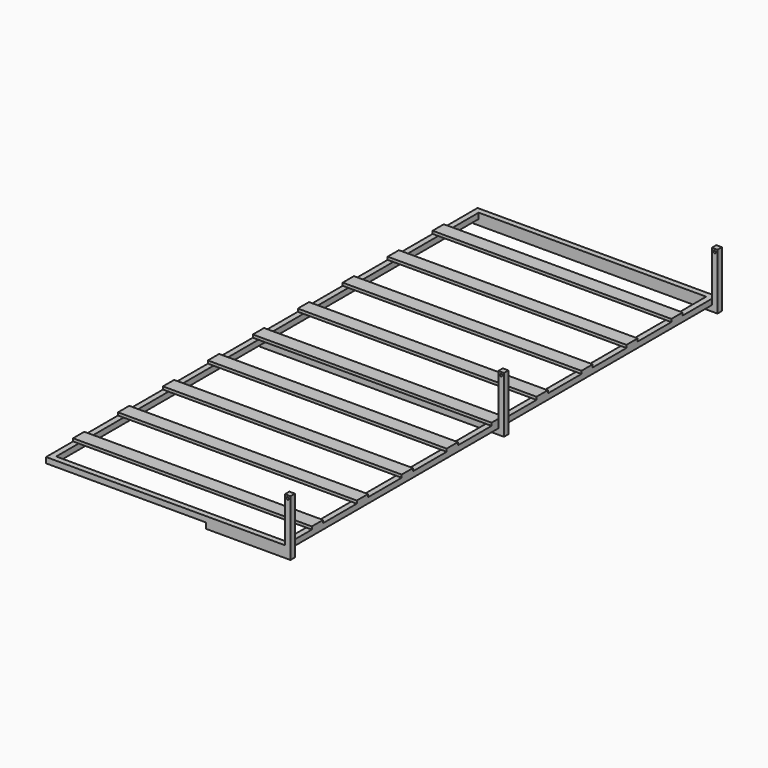
from build123d import *

# Parameters (mm, degrees)
F0_W           = 850
F0_H           = 1920
F0_W_2         = 810
F0_H_2         = 1880
F1_DEPTH       = 20
F2_W           = 850
F2_H           = 50
F3_DEPTH       = 10
F6_DEPTH       = 20
F8_DEPTH       = 10
F8_DEPTH_BACK  = 10
F10_DEPTH      = 20
F11_R          = 4.25
F12_DEPTH      = 960.001
F12_DEPTH_BACK = 960.001


with BuildPart() as f1:
    # F0 (on Top) → F1 (new body)
    with BuildSketch(Plane.XY):
        Rectangle(F0_W, F0_H)
        Rectangle(F0_W_2, F0_H_2, mode=Mode.SUBTRACT)
    extrude(amount=F1_DEPTH)

    # F2 (on face) → F3 (join)
    with BuildSketch(Plane.XY.offset(20)):
        with Locations((0, 785)):
            Rectangle(F2_W, F2_H)
        with Locations((0, 585)):
            Rectangle(F2_W, F2_H)
        with Locations((0, 385)):
            Rectangle(F2_W, F2_H)
        with Locations((0, 185)):
            Rectangle(F2_W, F2_H)
        with Locations((0, -15)):
            Rectangle(F2_W, F2_H)
        with Locations((0, -215)):
            Rectangle(F2_W, F2_H)
        with Locations((0, -415)):
            Rectangle(F2_W, F2_H)
        with Locations((0, -615)):
            Rectangle(F2_W, F2_H)
        with Locations((0, -815)):
            Rectangle(F2_W, F2_H)
    extrude(amount=F3_DEPTH)

    # F5 (on face) → F6 (join)
    with BuildSketch(Plane.XZ.offset(960)):
        Polygon((445, 180), (425, 180), (425, 0), (145, 0), (145, -20), (445, -20), align=None)
    extrude(amount=-F6_DEPTH)

    # F7 (on Front) → F8 (join, two sides)
    with BuildSketch(Plane.XZ) as f8_sk:
        Polygon((425, 0), (-425, 0), (-425, -20), (445, -20), (445, 180), (425, 180), align=None)
    extrude(amount=F8_DEPTH)
    extrude(f8_sk.sketch, amount=-F8_DEPTH_BACK)

    # F9 (on face) → F10 (join)
    with BuildSketch(Plane(origin=(0, 960, 0), x_dir=(-1, 0, 0), z_dir=(0, 1, 0))):
        Polygon((425, 0), (-425, 0), (-425, 180), (-445, 180), (-445, -20), (425, -20), align=None)
    extrude(amount=-F10_DEPTH)

    # F11 (on Front) → F12 (cut, two sides)
    with BuildSketch(Plane.XZ) as f12_sk:
        with Locations((435, 170)):
            Circle(F11_R)
    extrude(amount=-F12_DEPTH, mode=Mode.SUBTRACT)
    extrude(f12_sk.sketch, amount=F12_DEPTH_BACK, mode=Mode.SUBTRACT)


solid = f1.part
